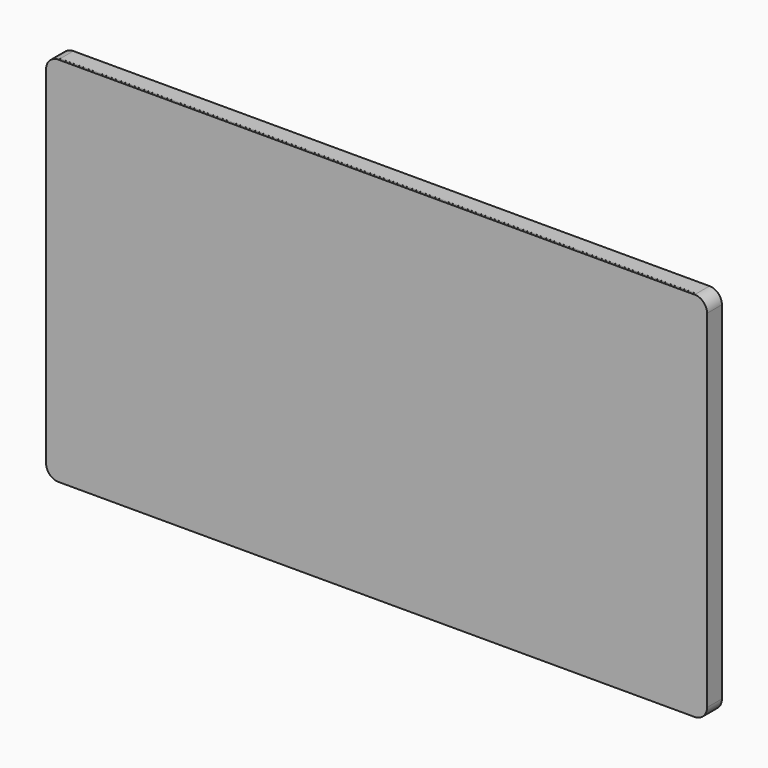
from build123d import *

# Parameters (mm, degrees)
F0_W     = 1600
F0_H     = 900
F0_W_2   = 1504.2692422867
F0_H_2   = 808.7469339371
F1_DEPTH = 40
F2_W     = 1600
F2_H     = 899.8901372014
F3_DEPTH = 5
F4_R     = 30


with BuildPart() as f1:
    # F0 (on Front) → F1 (new body)
    with BuildSketch(Plane.XZ):
        with Locations((30.8563187718, 30.8205480518)):
            Rectangle(F0_W, F0_H)
        with Locations((34.0940356255, 32.6578398405)):
            Rectangle(F0_W_2, F0_H_2, mode=Mode.SUBTRACT)
    extrude(amount=F1_DEPTH)

    # F2 (on face) → F3 (join)
    with BuildSketch(Plane.XZ.offset(40)):
        with Locations((30.8563187718, 30.7656166525)):
            Rectangle(F2_W, F2_H)
    extrude(amount=F3_DEPTH)

    # F4
    f4_edges = [f1.edges().sort_by_distance(p)[0] for p in [
        (830.856319, -22.5, -419.179452),
        (-769.143681, -22.5, -419.179452),
        (-769.143681, -20, 480.820548),
        (830.856319, -20, 480.820548),
    ]]
    fillet(f4_edges, radius=F4_R)


solid = f1.part
